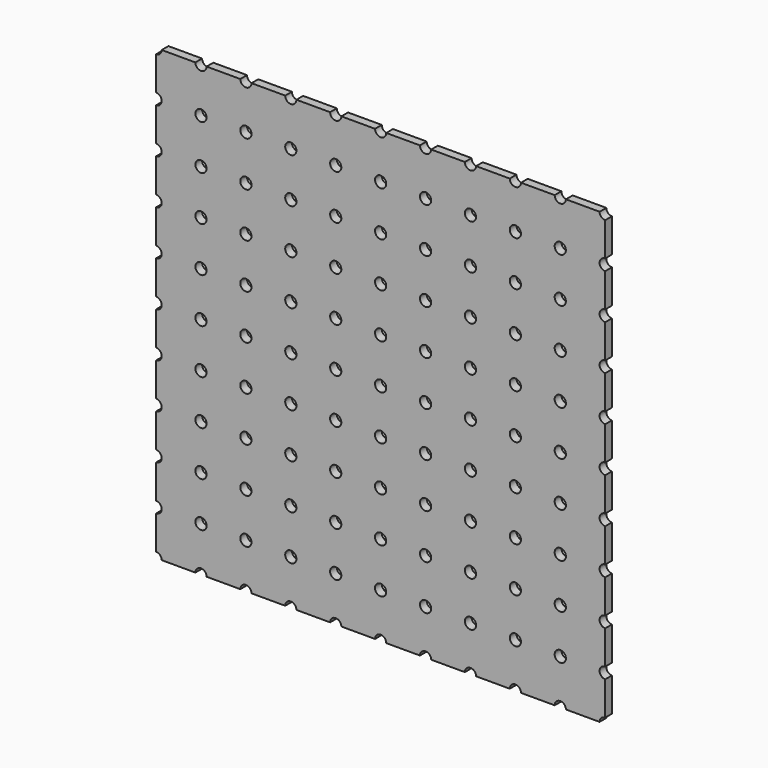
from build123d import *

# Parameters (mm, degrees)
F0_R     = 3.175
F1_DEPTH = 2.38125


with BuildPart() as f1:
    # F0 (on Front) → F1 (new body, symmetric)
    with BuildSketch(Plane.XZ):
        with BuildLine():
            Line((-104.775, 127), (-123.825, 127))
            ThreePointArc((-123.825, 127), (-124.754936, 124.754936), (-127, 123.825))
            Line((-127, 123.825), (-127, 104.775))
            ThreePointArc((-127, 104.775), (-124.754936, 103.845064), (-123.825, 101.6))
            ThreePointArc((-123.825, 101.6), (-124.754936, 99.354936), (-127, 98.425))
            Line((-127, 98.425), (-127, 79.375))
            ThreePointArc((-127, 79.375), (-124.754936, 78.445064), (-123.825, 76.2))
            ThreePointArc((-123.825, 76.2), (-124.754936, 73.954936), (-127, 73.025))
            Line((-127, 73.025), (-127, 53.975))
            ThreePointArc((-127, 53.975), (-124.754936, 53.045064), (-123.825, 50.8))
            ThreePointArc((-123.825, 50.8), (-124.754936, 48.554936), (-127, 47.625))
            Line((-127, 47.625), (-127, 28.575))
            ThreePointArc((-127, 28.575), (-124.754936, 27.645064), (-123.825, 25.4))
            ThreePointArc((-123.825, 25.4), (-124.754936, 23.154936), (-127, 22.225))
            Line((-127, 22.225), (-127, 3.175))
            ThreePointArc((-127, 3.175), (-124.754936, 2.245064), (-123.825, 0))
            ThreePointArc((-123.825, 0), (-124.754936, -2.245064), (-127, -3.175))
            Line((-127, -3.175), (-127, -22.225))
            ThreePointArc((-127, -22.225), (-124.754936, -23.154936), (-123.825, -25.4))
            ThreePointArc((-123.825, -25.4), (-124.754936, -27.645064), (-127, -28.575))
            Line((-127, -28.575), (-127, -47.625))
            ThreePointArc((-127, -47.625), (-124.754936, -48.554936), (-123.825, -50.8))
            ThreePointArc((-123.825, -50.8), (-124.754936, -53.045064), (-127, -53.975))
            Line((-127, -53.975), (-127, -73.025))
            ThreePointArc((-127, -73.025), (-124.754936, -73.954936), (-123.825, -76.2))
            ThreePointArc((-123.825, -76.2), (-124.754936, -78.445064), (-127, -79.375))
            Line((-127, -79.375), (-127, -98.425))
            ThreePointArc((-127, -98.425), (-124.754936, -99.354936), (-123.825, -101.6))
            ThreePointArc((-123.825, -101.6), (-124.754936, -103.845064), (-127, -104.775))
            Line((-127, -104.775), (-127, -123.825))
            ThreePointArc((-127, -123.825), (-124.754936, -124.754936), (-123.825, -127))
            Line((-123.825, -127), (-104.775, -127))
            ThreePointArc((-104.775, -127), (-101.6, -123.825), (-98.425, -127))
            Line((-98.425, -127), (-79.375, -127))
            ThreePointArc((-79.375, -127), (-76.2, -123.825), (-73.025, -127))
            Line((-73.025, -127), (-53.975, -127))
            ThreePointArc((-53.975, -127), (-50.8, -123.825), (-47.625, -127))
            Line((-47.625, -127), (-28.575, -127))
            ThreePointArc((-28.575, -127), (-25.4, -123.825), (-22.225, -127))
            Line((-22.225, -127), (-3.175, -127))
            ThreePointArc((-3.175, -127), (0, -123.825), (3.175, -127))
            Line((3.175, -127), (22.225, -127))
            ThreePointArc((22.225, -127), (25.4, -123.825), (28.575, -127))
            Line((28.575, -127), (47.625, -127))
            ThreePointArc((47.625, -127), (50.8, -123.825), (53.975, -127))
            Line((53.975, -127), (73.025, -127))
            ThreePointArc((73.025, -127), (76.2, -123.825), (79.375, -127))
            Line((79.375, -127), (98.425, -127))
            ThreePointArc((98.425, -127), (101.6, -123.825), (104.775, -127))
            Line((104.775, -127), (123.825, -127))
            ThreePointArc((123.825, -127), (124.754936, -124.754936), (127, -123.825))
            Line((127, -123.825), (127, -104.775))
            ThreePointArc((127, -104.775), (123.825, -101.6), (127, -98.425))
            Line((127, -98.425), (127, -79.375))
            ThreePointArc((127, -79.375), (123.825, -76.2), (127, -73.025))
            Line((127, -73.025), (127, -53.975))
            ThreePointArc((127, -53.975), (123.825, -50.8), (127, -47.625))
            Line((127, -47.625), (127, -28.575))
            ThreePointArc((127, -28.575), (123.825, -25.4), (127, -22.225))
            Line((127, -22.225), (127, -3.175))
            ThreePointArc((127, -3.175), (123.825, 0), (127, 3.175))
            Line((127, 3.175), (127, 22.225))
            ThreePointArc((127, 22.225), (123.825, 25.4), (127, 28.575))
            Line((127, 28.575), (127, 47.625))
            ThreePointArc((127, 47.625), (123.825, 50.8), (127, 53.975))
            Line((127, 53.975), (127, 73.025))
            ThreePointArc((127, 73.025), (123.825, 76.2), (127, 79.375))
            Line((127, 79.375), (127, 98.425))
            ThreePointArc((127, 98.425), (123.825, 101.6), (127, 104.775))
            Line((127, 104.775), (127, 123.825))
            ThreePointArc((127, 123.825), (124.754936, 124.754936), (123.825, 127))
            Line((123.825, 127), (104.775, 127))
            ThreePointArc((104.775, 127), (101.6, 123.825), (98.425, 127))
            Line((98.425, 127), (79.375, 127))
            ThreePointArc((79.375, 127), (76.2, 123.825), (73.025, 127))
            Line((73.025, 127), (53.975, 127))
            ThreePointArc((53.975, 127), (50.8, 123.825), (47.625, 127))
            Line((47.625, 127), (28.575, 127))
            ThreePointArc((28.575, 127), (25.4, 123.825), (22.225, 127))
            Line((22.225, 127), (3.175, 127))
            ThreePointArc((3.175, 127), (0, 123.825), (-3.175, 127))
            Line((-3.175, 127), (-22.225, 127))
            ThreePointArc((-22.225, 127), (-25.4, 123.825), (-28.575, 127))
            Line((-28.575, 127), (-47.625, 127))
            ThreePointArc((-47.625, 127), (-50.8, 123.825), (-53.975, 127))
            Line((-53.975, 127), (-73.025, 127))
            ThreePointArc((-73.025, 127), (-76.2, 123.825), (-79.375, 127))
            Line((-79.375, 127), (-98.425, 127))
            ThreePointArc((-98.425, 127), (-101.6, 123.825), (-104.775, 127))
        make_face()
        with Locations((-101.6, -101.6)):
            Circle(F0_R, mode=Mode.SUBTRACT)
        with Locations((-76.2, -101.6)):
            Circle(F0_R, mode=Mode.SUBTRACT)
        with Locations((-101.6, -76.2)):
            Circle(F0_R, mode=Mode.SUBTRACT)
        with Locations((-76.2, -76.2)):
            Circle(F0_R, mode=Mode.SUBTRACT)
        with Locations((-50.8, -101.6)):
            Circle(F0_R, mode=Mode.SUBTRACT)
        with Locations((-25.4, -101.6)):
            Circle(F0_R, mode=Mode.SUBTRACT)
        with Locations((-50.8, -76.2)):
            Circle(F0_R, mode=Mode.SUBTRACT)
        with Locations((-25.4, -76.2)):
            Circle(F0_R, mode=Mode.SUBTRACT)
        with Locations((-101.6, -50.8)):
            Circle(F0_R, mode=Mode.SUBTRACT)
        with Locations((-76.2, -50.8)):
            Circle(F0_R, mode=Mode.SUBTRACT)
        with Locations((-101.6, -25.4)):
            Circle(F0_R, mode=Mode.SUBTRACT)
        with Locations((-76.2, -25.4)):
            Circle(F0_R, mode=Mode.SUBTRACT)
        with Locations((-50.8, -50.8)):
            Circle(F0_R, mode=Mode.SUBTRACT)
        with Locations((-25.4, -50.8)):
            Circle(F0_R, mode=Mode.SUBTRACT)
        with Locations((-50.8, -25.4)):
            Circle(F0_R, mode=Mode.SUBTRACT)
        with Locations((-25.4, -25.4)):
            Circle(F0_R, mode=Mode.SUBTRACT)
        with Locations((0, -101.6)):
            Circle(F0_R, mode=Mode.SUBTRACT)
        with Locations((25.4, -101.6)):
            Circle(F0_R, mode=Mode.SUBTRACT)
        with Locations((50.8, -101.6)):
            Circle(F0_R, mode=Mode.SUBTRACT)
        with Locations((0, -76.2)):
            Circle(F0_R, mode=Mode.SUBTRACT)
        with Locations((25.4, -76.2)):
            Circle(F0_R, mode=Mode.SUBTRACT)
        with Locations((50.8, -76.2)):
            Circle(F0_R, mode=Mode.SUBTRACT)
        with Locations((76.2, -101.6)):
            Circle(F0_R, mode=Mode.SUBTRACT)
        with Locations((101.6, -101.6)):
            Circle(F0_R, mode=Mode.SUBTRACT)
        with Locations((76.2, -76.2)):
            Circle(F0_R, mode=Mode.SUBTRACT)
        with Locations((101.6, -76.2)):
            Circle(F0_R, mode=Mode.SUBTRACT)
        with Locations((0, -50.8)):
            Circle(F0_R, mode=Mode.SUBTRACT)
        with Locations((25.4, -50.8)):
            Circle(F0_R, mode=Mode.SUBTRACT)
        with Locations((50.8, -50.8)):
            Circle(F0_R, mode=Mode.SUBTRACT)
        with Locations((0, -25.4)):
            Circle(F0_R, mode=Mode.SUBTRACT)
        with Locations((25.4, -25.4)):
            Circle(F0_R, mode=Mode.SUBTRACT)
        with Locations((50.8, -25.4)):
            Circle(F0_R, mode=Mode.SUBTRACT)
        with Locations((76.2, -50.8)):
            Circle(F0_R, mode=Mode.SUBTRACT)
        with Locations((101.6, -50.8)):
            Circle(F0_R, mode=Mode.SUBTRACT)
        with Locations((76.2, -25.4)):
            Circle(F0_R, mode=Mode.SUBTRACT)
        with Locations((101.6, -25.4)):
            Circle(F0_R, mode=Mode.SUBTRACT)
        with Locations((-101.6, 0)):
            Circle(F0_R, mode=Mode.SUBTRACT)
        with Locations((-101.6, 25.4)):
            Circle(F0_R, mode=Mode.SUBTRACT)
        with Locations((-76.2, 0)):
            Circle(F0_R, mode=Mode.SUBTRACT)
        with Locations((-76.2, 25.4)):
            Circle(F0_R, mode=Mode.SUBTRACT)
        with Locations((-101.6, 50.8)):
            Circle(F0_R, mode=Mode.SUBTRACT)
        with Locations((-76.2, 50.8)):
            Circle(F0_R, mode=Mode.SUBTRACT)
        with Locations((-50.8, 0)):
            Circle(F0_R, mode=Mode.SUBTRACT)
        with Locations((-50.8, 25.4)):
            Circle(F0_R, mode=Mode.SUBTRACT)
        with Locations((-25.4, 0)):
            Circle(F0_R, mode=Mode.SUBTRACT)
        with Locations((-25.4, 25.4)):
            Circle(F0_R, mode=Mode.SUBTRACT)
        with Locations((-50.8, 50.8)):
            Circle(F0_R, mode=Mode.SUBTRACT)
        with Locations((-25.4, 50.8)):
            Circle(F0_R, mode=Mode.SUBTRACT)
        with Locations((-101.6, 76.2)):
            Circle(F0_R, mode=Mode.SUBTRACT)
        with Locations((-76.2, 76.2)):
            Circle(F0_R, mode=Mode.SUBTRACT)
        with Locations((-101.6, 101.6)):
            Circle(F0_R, mode=Mode.SUBTRACT)
        with Locations((-76.2, 101.6)):
            Circle(F0_R, mode=Mode.SUBTRACT)
        with Locations((-50.8, 76.2)):
            Circle(F0_R, mode=Mode.SUBTRACT)
        with Locations((-25.4, 76.2)):
            Circle(F0_R, mode=Mode.SUBTRACT)
        with Locations((-50.8, 101.6)):
            Circle(F0_R, mode=Mode.SUBTRACT)
        with Locations((-25.4, 101.6)):
            Circle(F0_R, mode=Mode.SUBTRACT)
        Circle(F0_R, mode=Mode.SUBTRACT)
        with Locations((25.4, 0)):
            Circle(F0_R, mode=Mode.SUBTRACT)
        with Locations((0, 25.4)):
            Circle(F0_R, mode=Mode.SUBTRACT)
        with Locations((25.4, 25.4)):
            Circle(F0_R, mode=Mode.SUBTRACT)
        with Locations((50.8, 0)):
            Circle(F0_R, mode=Mode.SUBTRACT)
        with Locations((50.8, 25.4)):
            Circle(F0_R, mode=Mode.SUBTRACT)
        with Locations((0, 50.8)):
            Circle(F0_R, mode=Mode.SUBTRACT)
        with Locations((25.4, 50.8)):
            Circle(F0_R, mode=Mode.SUBTRACT)
        with Locations((50.8, 50.8)):
            Circle(F0_R, mode=Mode.SUBTRACT)
        with Locations((76.2, 0)):
            Circle(F0_R, mode=Mode.SUBTRACT)
        with Locations((76.2, 25.4)):
            Circle(F0_R, mode=Mode.SUBTRACT)
        with Locations((101.6, 0)):
            Circle(F0_R, mode=Mode.SUBTRACT)
        with Locations((101.6, 25.4)):
            Circle(F0_R, mode=Mode.SUBTRACT)
        with Locations((76.2, 50.8)):
            Circle(F0_R, mode=Mode.SUBTRACT)
        with Locations((101.6, 50.8)):
            Circle(F0_R, mode=Mode.SUBTRACT)
        with Locations((0, 76.2)):
            Circle(F0_R, mode=Mode.SUBTRACT)
        with Locations((25.4, 76.2)):
            Circle(F0_R, mode=Mode.SUBTRACT)
        with Locations((50.8, 76.2)):
            Circle(F0_R, mode=Mode.SUBTRACT)
        with Locations((0, 101.6)):
            Circle(F0_R, mode=Mode.SUBTRACT)
        with Locations((25.4, 101.6)):
            Circle(F0_R, mode=Mode.SUBTRACT)
        with Locations((50.8, 101.6)):
            Circle(F0_R, mode=Mode.SUBTRACT)
        with Locations((76.2, 76.2)):
            Circle(F0_R, mode=Mode.SUBTRACT)
        with Locations((101.6, 76.2)):
            Circle(F0_R, mode=Mode.SUBTRACT)
        with Locations((76.2, 101.6)):
            Circle(F0_R, mode=Mode.SUBTRACT)
        with Locations((101.6, 101.6)):
            Circle(F0_R, mode=Mode.SUBTRACT)
    extrude(amount=F1_DEPTH, both=True)


solid = f1.part
